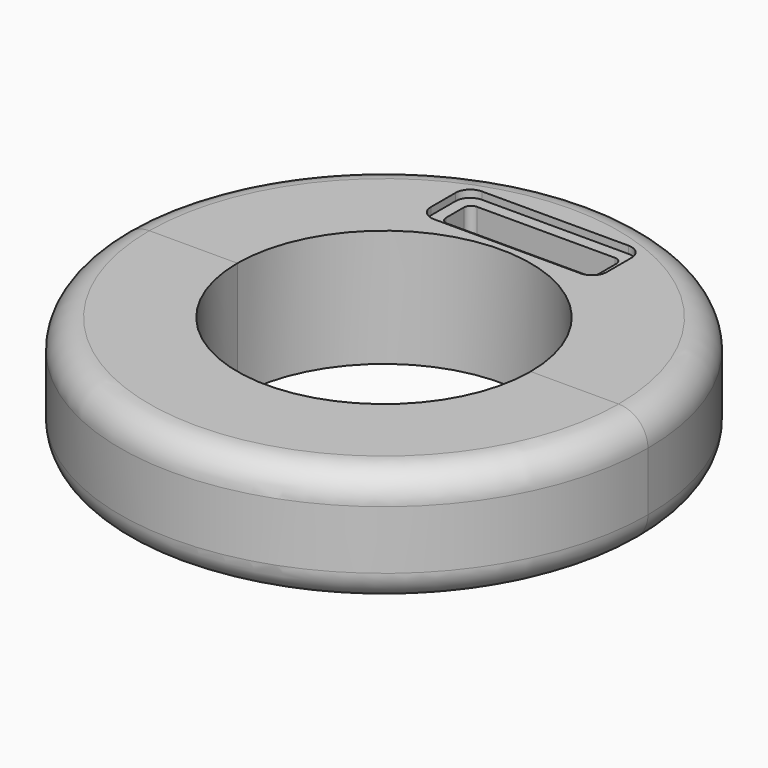
from build123d import *

# Parameters (mm, degrees)
F1_ANGLE = 180
F2_ANGLE = 180
F4_DEPTH = 3.175
F5_DEPTH = 15.24


with BuildPart() as f1:
    # F0 (on Front) → F1 (revolve)
    with BuildSketch(Plane.XZ):
        with BuildLine():
            Line((0, 0), (38.1, 0))
            ThreePointArc((38.1, 0), (47.0802561211, 3.7197438789), (50.8, 12.7))
            Line((50.8, 12.7), (50.8, 38.1))
            ThreePointArc((50.8, 38.1), (47.0802561211, 47.0802561211), (38.1, 50.8))
            Line((38.1, 50.8), (0, 50.8))
            Line((0, 50.8), (0, 0))
        make_face()
    revolve(axis=Axis((-63.5, 0, 20.0394056737), (0, 0, -1)), revolution_arc=F1_ANGLE)


with BuildPart() as f2:
    # F0 (on Front) → F2 (revolve)
    with BuildSketch(Plane.XZ):
        with BuildLine():
            Line((0, 0), (38.1, 0))
            ThreePointArc((38.1, 0), (47.0802561211, 3.7197438789), (50.8, 12.7))
            Line((50.8, 12.7), (50.8, 38.1))
            ThreePointArc((50.8, 38.1), (47.0802561211, 47.0802561211), (38.1, 50.8))
            Line((38.1, 50.8), (0, 50.8))
            Line((0, 50.8), (0, 0))
        make_face()
    revolve(axis=Axis((-63.5, 0, 20.0394056737), (0, 0, 1)), revolution_arc=F2_ANGLE)

    # F3 (on face) → F4 (cut)
    with BuildSketch(Plane.XY.offset(50.8)):
        with BuildLine():
            Line((-95.25, 66.675), (-63.5, 66.675))
            Line((-63.5, 66.675), (-31.75, 66.675))
            ThreePointArc((-31.75, 66.675), (-27.2598719395, 68.5348719395), (-25.4, 73.025))
            Line((-25.4, 73.025), (-25.4, 86.36))
            ThreePointArc((-25.4, 86.36), (-27.2598719395, 90.8501280605), (-31.75, 92.71))
            Line((-31.75, 92.71), (-63.5, 92.71))
            Line((-63.5, 92.71), (-95.25, 92.71))
            ThreePointArc((-95.25, 92.71), (-99.7401280605, 90.8501280605), (-101.6, 86.36))
            Line((-101.6, 86.36), (-101.6, 73.025))
            ThreePointArc((-101.6, 73.025), (-99.7401280605, 68.5348719395), (-95.25, 66.675))
        make_face()
        with BuildLine():
            ThreePointArc((-96.52, 84.455), (-95.5900640303, 86.7000640303), (-93.345, 87.63))
            Line((-93.345, 87.63), (-63.5, 87.63))
            Line((-63.5, 87.63), (-33.655, 87.63))
            ThreePointArc((-33.655, 87.63), (-31.4099359697, 86.7000640303), (-30.48, 84.455))
            Line((-30.48, 84.455), (-30.48, 74.93))
            ThreePointArc((-30.48, 74.93), (-31.4099359697, 72.6849359697), (-33.655, 71.755))
            Line((-33.655, 71.755), (-63.5, 71.755))
            Line((-63.5, 71.755), (-93.345, 71.755))
            ThreePointArc((-93.345, 71.755), (-95.5900640303, 72.6849359697), (-96.52, 74.93))
            Line((-96.52, 74.93), (-96.52, 84.455))
        make_face(mode=Mode.SUBTRACT)
    extrude(amount=-F4_DEPTH, mode=Mode.SUBTRACT)

    # F5 (cut): a face of the model
    f5_faces = [f2.faces().sort_by_distance(p)[0] for p in [
        (-63.5, 79.6925, 50.8),
    ]]
    extrude(f5_faces, amount=-F5_DEPTH, mode=Mode.SUBTRACT)


solid = Compound([f1.part, f2.part])
